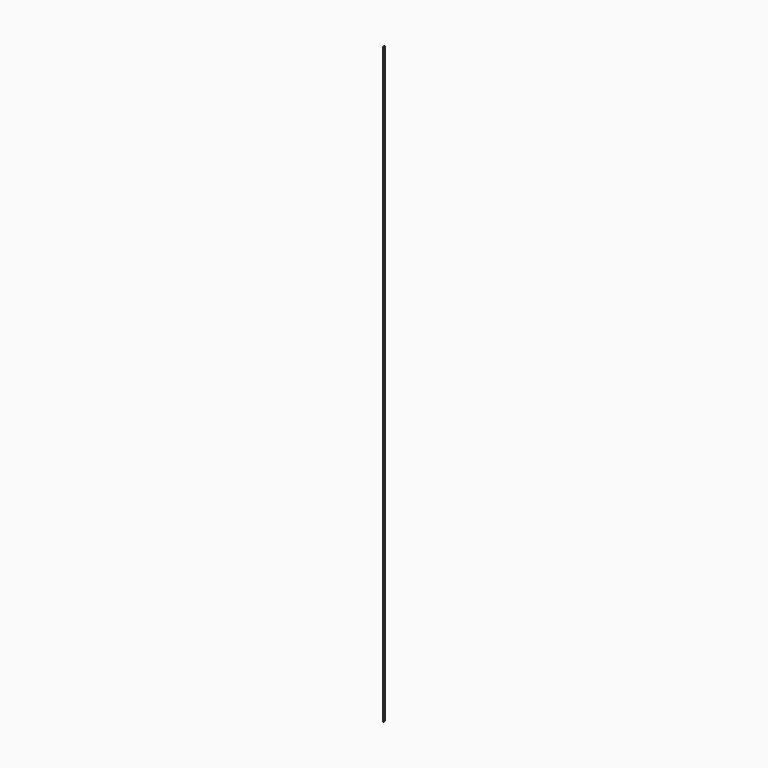
from build123d import *

# Parameters (mm, degrees)
F0_W     = 25.15
F0_H     = 15400
F1_ANGLE = 180


with BuildPart() as f1:
    # F0 (on Front) → F1 (revolve, symmetric)
    with BuildSketch(Plane.XZ) as f1_sk:
        with Locations((-12.575, 7700)):
            Rectangle(F0_W, F0_H)
    revolve(axis=Axis((0, 0, 7700), (0, 0, -1)), revolution_arc=F1_ANGLE / 2)
    revolve(f1_sk.sketch, axis=Axis((0, 0, 7700), (0, 0, 1)), revolution_arc=F1_ANGLE / 2)


solid = f1.part
